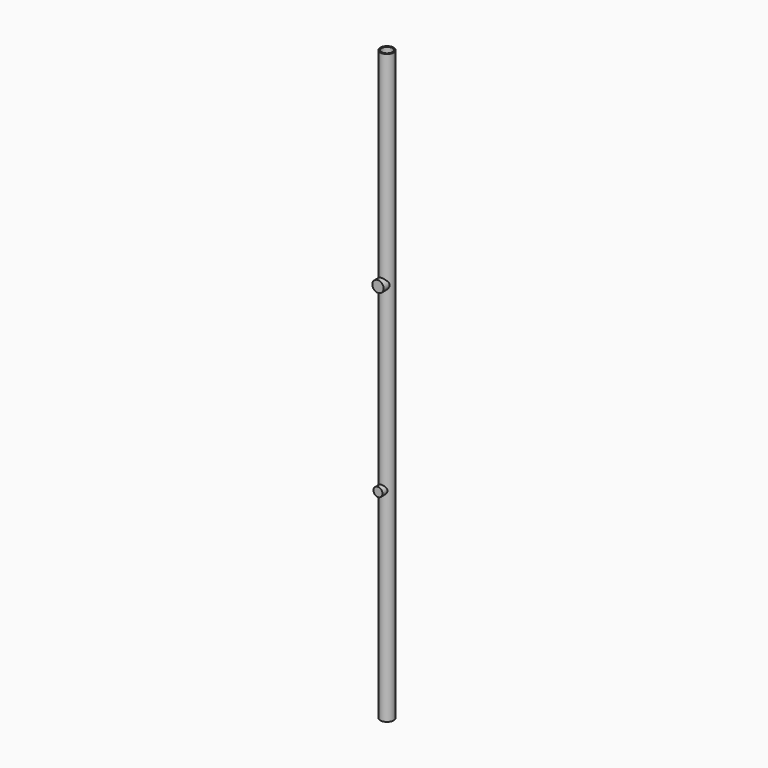
from build123d import *

# Parameters (mm, degrees)
F0_R     = 15
F0_R_2   = 12
F1_DEPTH = 1300
F2_R     = 6.699754
F2_R_2   = 6.23735
F3_DEPTH = 25
F4_R     = 10
F4_R_2   = 12.5
F5_DEPTH = 25


with BuildPart() as f1:
    # F0 (on Top) → F1 (new body)
    with BuildSketch(Plane.XY):
        Circle(F0_R)
        Circle(F0_R_2, mode=Mode.SUBTRACT)
    extrude(amount=F1_DEPTH)

    # F2 (on Front) → F3 (cut)
    with BuildSketch(Plane.XZ):
        with Locations((0, 600)):
            Circle(F2_R)
        with Locations((0, 700)):
            Circle(F2_R_2)
    extrude(amount=-F3_DEPTH, mode=Mode.SUBTRACT)

    # F4 (on Front) → F5 (join)
    with BuildSketch(Plane.XZ):
        with Locations((0, 450)):
            Circle(F4_R)
        with Locations((0, 850)):
            Circle(F4_R_2)
    extrude(amount=F5_DEPTH)


solid = f1.part
